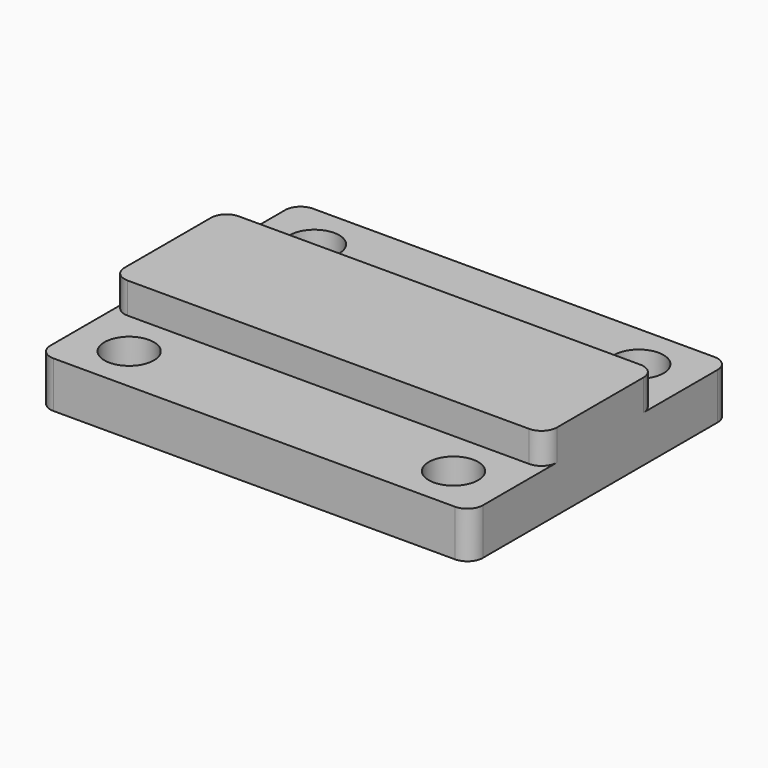
from build123d import *

# Parameters (mm, degrees)
SKETCH_W     = 28
SKETCH_H     = 21
PAD_DEPTH    = 3
SKETCH001_W  = 28
SKETCH001_H  = 9
PAD001_DEPTH = 2
SKETCH002_R  = 1.6
POCKET_DEPTH = 3.001
FILLET_R     = 1
FILLET001_R  = 1
FILLET002_R  = 1
FILLET003_R  = 1


with BuildPart() as part:
    # Sketch → Pad (new body)
    with BuildSketch(Plane.XY):
        with Locations((14, 10.5)):
            Rectangle(SKETCH_W, SKETCH_H)
    extrude(amount=PAD_DEPTH)

    # Sketch001 (on Face6 of Pad) → Pad001 (join)
    with BuildSketch(Plane.XY.offset(3)):
        with Locations((14, 10.5)):
            Rectangle(SKETCH001_W, SKETCH001_H)
    extrude(amount=PAD001_DEPTH)

    # Sketch002 (on Face5 of Pad001) → Pocket (cut, through all)
    with BuildSketch(Plane.XY.offset(3)):
        with Locations((3.5, 3)):
            Circle(SKETCH002_R)
        with Locations((24.5, 3)):
            Circle(SKETCH002_R)
        with Locations((3.5, 18)):
            Circle(SKETCH002_R)
        with Locations((24.5, 18)):
            Circle(SKETCH002_R)
    extrude(amount=-POCKET_DEPTH, mode=Mode.SUBTRACT)

    # Fillet
    fillet_edges = [part.edges().sort_by_distance(p)[0] for p in [
        (28, 0, 1.5),
        (28, 21, 1.5),
        (0, 0, 1.5),
        (0, 21, 1.5),
    ]]
    fillet(fillet_edges, radius=FILLET_R)

    # Fillet001
    fillet001_edges = [part.edges().sort_by_distance(p)[0] for p in [
        (0, 6, 4),
    ]]
    fillet(fillet001_edges, radius=FILLET001_R)

    # Fillet002
    fillet002_edges = [part.edges().sort_by_distance(p)[0] for p in [
        (28, 6, 4),
    ]]
    fillet(fillet002_edges, radius=FILLET002_R)

    # Fillet003
    fillet003_edges = [part.edges().sort_by_distance(p)[0] for p in [
        (0, 15, 4),
        (28, 15, 4),
    ]]
    fillet(fillet003_edges, radius=FILLET003_R)


solid = part.part
